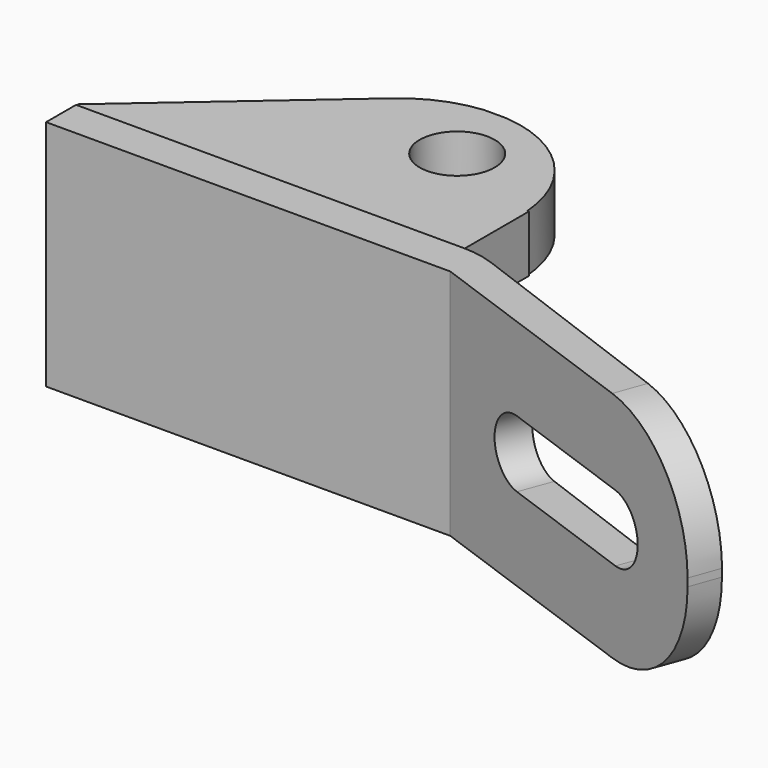
from build123d import *

# Parameters (mm, degrees)
PAD_DEPTH       = 30
POCKET_DEPTH    = 5
FILLET_R        = 14.5
FILLET001_R     = 14.5
FILLET002_R     = 12
SKETCH002_W     = 50.00223
SKETCH002_H     = 7.321129
PAD001_DEPTH    = 25
SKETCH003_R     = 4.8367523299
POCKET001_DEPTH = 10


with BuildPart() as part:
    # Sketch → Pad (new body)
    with BuildSketch(Plane.XY):
        Polygon((-26.0423896161, -2.4126467386), (-26.0423896161, 2.4126467386), (26.0423896161, 2.4126467386), (70.4083759206, -14.101078257), (69.0323338509, -17.9166155839), (26.0423896161, -2.4126467386), align=None)
    extrude(amount=PAD_DEPTH)

    # Sketch001 (on Face3 of Pad) → Pocket (cut)
    with BuildSketch(Plane(origin=(3.9577363848, 10.6329055553, 0), x_dir=(-0.9371842108, 0.3488348534, 0), z_dir=(0.3488348534, 0.9371842108, 0))):
        with BuildLine():
            ThreePointArc((-57.051074, 19.2972875988), (-61.3483615988, 15), (-57.051074, 10.7027124012))
            Line((-57.051074, 10.7027124012), (-38.086853, 10.7027124012))
            ThreePointArc((-38.086853, 10.7027124012), (-33.7895654012, 15), (-38.086853, 19.2972875988))
            Line((-38.086853, 19.2972875988), (-57.051074, 19.2972875988))
        make_face()
    extrude(amount=-POCKET_DEPTH, mode=Mode.SUBTRACT)

    # Fillet
    fillet_edges = [part.edges().sort_by_distance(p)[0] for p in [
        (69.720355, -16.008847, 30),
    ]]
    fillet(fillet_edges, radius=FILLET_R)

    # Fillet001
    fillet001_edges = [part.edges().sort_by_distance(p)[0] for p in [
        (69.720355, -16.008847, 0),
    ]]
    fillet(fillet001_edges, radius=FILLET001_R)

    # Fillet002
    fillet002_edges = [part.edges().sort_by_distance(p)[0] for p in [
        (26.04239, 2.412647, 15),
    ]]
    fillet(fillet002_edges, radius=FILLET002_R)

    # Sketch002 (on Face12 of Fillet002) → Pad001 (join)
    with BuildSketch(Plane(origin=(0, 2.4126467386, 0), x_dir=(-1, 0, 0), z_dir=(0, 1, 0))):
        with Locations((1.1177492, 26.194347)):
            Rectangle(SKETCH002_W, SKETCH002_H)
    extrude(amount=PAD001_DEPTH)

    # Sketch003 (on Face17 of Pad001) → Pocket001 (cut)
    with BuildSketch(Plane.XY.offset(29.8549115)):
        with Locations((10.379424, 18.289026)):
            Circle(SKETCH003_R)
        with BuildLine():
            Line((-30.0109383074, -0.5137681689), (-30.0109383074, 32.26572))
            Line((31.0117, 32.26572), (-30.0109383074, 32.26572))
            Line((32.17643, 11.966219), (31.0117, 32.26572))
            Line((23.690575, 12.964556), (32.17643, 11.966219))
            ThreePointArc((23.690575, 12.964556), (14.0178466447, 26.3039488372), (-2.2418022126, 23.6346991039))
            Line((-2.2418022126, 23.6346991039), (-30.0109383074, -0.5137681689))
        make_face()
    extrude(amount=-POCKET001_DEPTH, mode=Mode.SUBTRACT)


solid = part.part
